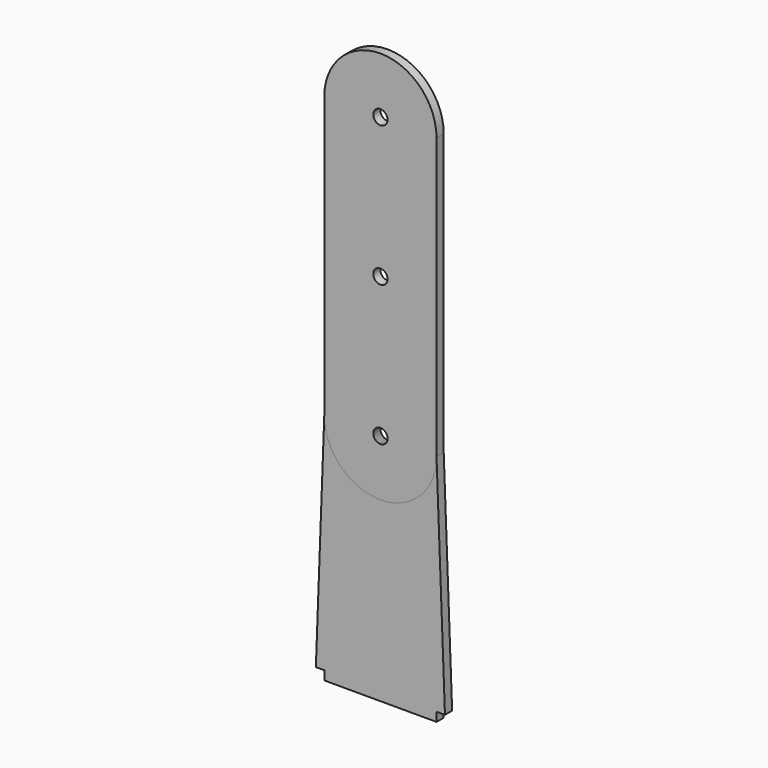
from build123d import *

# Parameters (mm, degrees)
F0_R     = 2.55
F0_W     = 40
F0_H     = 3.2
F1_DEPTH = 3.2
F2_R     = 2.55
F3_DEPTH = 3.2


with BuildPart() as f1:
    # F0 (on Front) → F1 (new body)
    with BuildSketch(Plane.XZ):
        with BuildLine():
            Line((-23, -16.8), (-20, -16.8))
            Line((-20, -16.8), (20, -16.8))
            Line((20, -16.8), (23, -16.8))
            Line((23, -16.8), (20, 63.2))
            ThreePointArc((20, 63.2), (0, 83.2), (-20, 63.2))
            Line((-20, 63.2), (-23, -16.8))
        make_face()
        with Locations((0, 63.2)):
            Circle(F0_R, mode=Mode.SUBTRACT)
        with Locations((0, -18.4)):
            Rectangle(F0_W, F0_H)
    extrude(amount=F1_DEPTH)


with BuildPart() as f3:
    # F2 (on Front) → F3 (new body)
    with BuildSketch(Plane.XZ):
        with BuildLine():
            Line((20, 63.2), (2.55, 63.2))
            ThreePointArc((2.55, 63.2), (0, 60.65), (-2.55, 63.2))
            Line((-2.55, 63.2), (-20, 63.2))
            ThreePointArc((-20, 63.2), (0, 43.2), (20, 63.2))
        make_face()
        with BuildLine():
            ThreePointArc((-2.55, 63.2), (0, 65.75), (2.55, 63.2))
            Line((2.55, 63.2), (20, 63.2))
            Line((20, 63.2), (20, 163.2))
            ThreePointArc((20, 163.2), (0, 183.2), (-20, 163.2))
            Line((-20, 163.2), (-20, 63.2))
            Line((-20, 63.2), (-2.55, 63.2))
        make_face()
        with Locations((0, 113.2)):
            Circle(F2_R, mode=Mode.SUBTRACT)
        with Locations((0, 163.2)):
            Circle(F2_R, mode=Mode.SUBTRACT)
    extrude(amount=F3_DEPTH)


solid = Compound([f1.part, f3.part])
